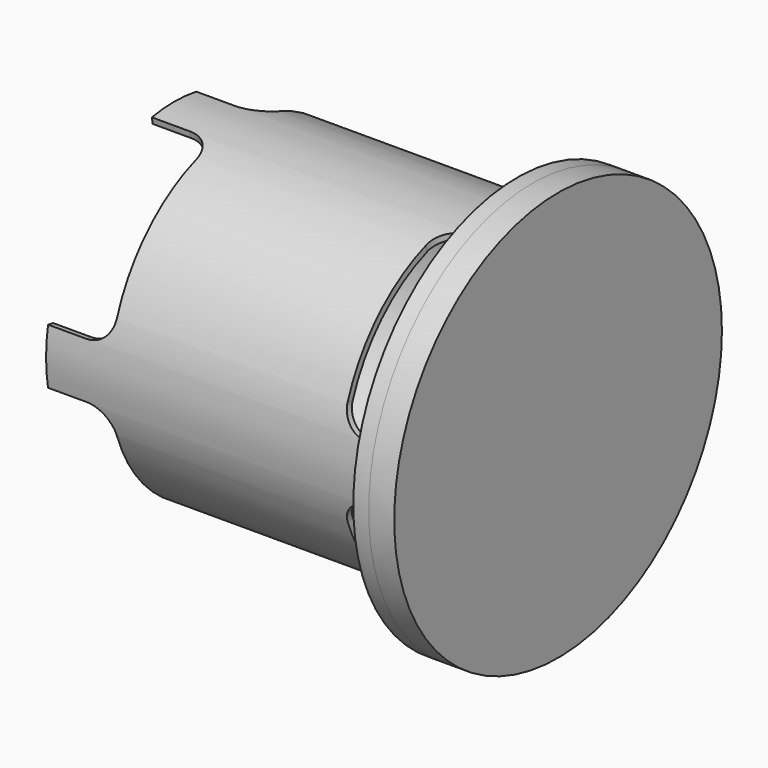
from build123d import *

# Parameters (mm, degrees)
F0_R     = 62.5
F0_R_2   = 60
F1_DEPTH = 70
F2_R     = 80
F2_R_2   = 62.5
F2_R_3   = 60
F3_DEPTH = 6
F4_DEPTH = 10
F6_DEPTH = 25
F7_R     = 10


with BuildPart() as f1:
    # F0 (on Right) → F1 (new body)
    with BuildSketch(Plane.YZ):
        Circle(F0_R)
        Circle(F0_R_2, mode=Mode.SUBTRACT)
    extrude(amount=F1_DEPTH)

    # F5 (on face) → F6 (cut)
    with BuildSketch(Plane.YZ.offset(70)):
        with BuildLine():
            Line((61.5504845633, -10.8530111042), (59.0884651807, -10.41889066))
            ThreePointArc((59.0884651807, -10.41889066), (42.4264068712, -42.4264068712), (10.41889066, -59.0884651807))
            Line((10.41889066, -59.0884651807), (10.8530111042, -61.5504845633))
            ThreePointArc((10.8530111042, -61.5504845633), (44.1941738242, -44.1941738242), (61.5504845633, -10.8530111042))
        make_face()
        with BuildLine():
            Line((-10.8530111042, -61.5504845633), (-10.41889066, -59.0884651807))
            ThreePointArc((-10.41889066, -59.0884651807), (-42.4264068712, -42.4264068712), (-59.0884651807, -10.41889066))
            Line((-59.0884651807, -10.41889066), (-61.5504845633, -10.8530111042))
            ThreePointArc((-61.5504845633, -10.8530111042), (-44.1941738242, -44.1941738242), (-10.8530111042, -61.5504845633))
        make_face()
        with BuildLine():
            Line((-61.5504845633, 10.8530111042), (-59.0884651807, 10.41889066))
            ThreePointArc((-59.0884651807, 10.41889066), (-42.4264068712, 42.4264068712), (-10.41889066, 59.0884651807))
            Line((-10.41889066, 59.0884651807), (-10.8530111042, 61.5504845633))
            ThreePointArc((-10.8530111042, 61.5504845633), (-44.1941738242, 44.1941738242), (-61.5504845633, 10.8530111042))
        make_face()
        with BuildLine():
            Line((10.8530111042, 61.5504845633), (10.41889066, 59.0884651807))
            ThreePointArc((10.41889066, 59.0884651807), (42.4264068712, 42.4264068712), (59.0884651807, 10.41889066))
            Line((59.0884651807, 10.41889066), (61.5504845633, 10.8530111042))
            ThreePointArc((61.5504845633, 10.8530111042), (44.1941738242, 44.1941738242), (10.8530111042, 61.5504845633))
        make_face()
    extrude(amount=-F6_DEPTH, mode=Mode.SUBTRACT)

    # F7
    f7_edges = [f1.edges().sort_by_distance(p)[0] for p in [
        (45, 60.319475, -10.635951),
        (45, 10.635951, -60.319475),
        (45, -60.319475, -10.635951),
        (45, 10.635951, 60.319475),
        (45, 60.319475, 10.635951),
        (45, -60.319475, 10.635951),
        (45, -10.635951, 60.319475),
        (45, -10.635951, -60.319475),
    ]]
    fillet(f7_edges, radius=F7_R)

    # F8: F1 across plane


with BuildPart() as f3:
    # F2 (on face) → F3 (new body)
    with BuildSketch(Plane.YZ.offset(70)):
        Circle(F2_R)
        Circle(F2_R_2, mode=Mode.SUBTRACT)
        Circle(F2_R_2)
        Circle(F2_R_3, mode=Mode.SUBTRACT)
        Circle(F2_R_3)
    extrude(amount=-F3_DEPTH)


with BuildPart() as f4:
    # F2 (on face) → F4 (new body)
    with BuildSketch(Plane.YZ.offset(70)):
        Circle(F2_R)
        Circle(F2_R_2, mode=Mode.SUBTRACT)
        Circle(F2_R_2)
        Circle(F2_R_3, mode=Mode.SUBTRACT)
        Circle(F2_R_3)
    extrude(amount=F4_DEPTH)


with BuildPart() as f1_1:
    add(f1.part)
    add(f1.part.mirror(Plane.YZ))


solid = Compound([f3.part, f4.part, f1_1.part])
